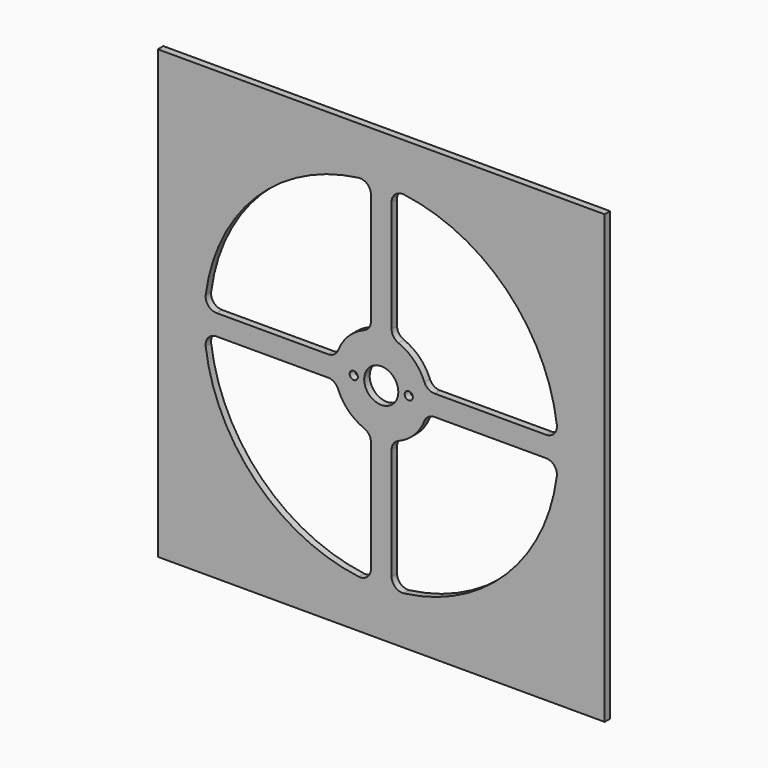
from build123d import *

# Parameters (mm, degrees)
F1_DEPTH = 2
F2_R     = 1.19
F2_R_2   = 4.96
F3_DEPTH = 2.001


with BuildPart() as f1:
    # F0 (on Front) → F1 (new body)
    with BuildSketch(Plane.XZ):
        Polygon((65, 65), (0, 65), (-65, 65), (-65, -65), (0, -65), (65, -65), align=None)
    extrude(amount=-F1_DEPTH)

    # F2 (on Front) → F3 (cut, through all)
    with BuildSketch(Plane.XZ):
        with BuildLine():
            ThreePointArc((-3, 47.923168), (-4.080113, 50.311237), (-6.586714, 51.077052))
            ThreePointArc((-6.586714, 51.077052), (-36.415999, 36.415999), (-51.077052, 6.586714))
            ThreePointArc((-51.077052, 6.586714), (-50.311237, 4.080113), (-47.923168, 3))
            Line((-47.923168, 3), (-15.492902, 3))
            ThreePointArc((-15.492902, 3), (-13.708845, 3.547598), (-12.539219, 5.001799))
            ThreePointArc((-12.539219, 5.001799), (-9.545942, 9.545942), (-5.001799, 12.539219))
            ThreePointArc((-5.001799, 12.539219), (-3.547598, 13.708845), (-3, 15.492902))
            Line((-3, 15.492902), (-3, 47.923168))
        make_face()
        with BuildLine():
            ThreePointArc((6.586714, 51.077052), (4.080113, 50.311237), (3, 47.923168))
            Line((3, 47.923168), (3, 15.492902))
            ThreePointArc((3, 15.492902), (3.547598, 13.708845), (5.001799, 12.539219))
            ThreePointArc((5.001799, 12.539219), (9.545942, 9.545942), (12.539219, 5.001799))
            ThreePointArc((12.539219, 5.001799), (13.708845, 3.547598), (15.492902, 3))
            Line((15.492902, 3), (47.923168, 3))
            ThreePointArc((47.923168, 3), (50.311237, 4.080113), (51.077052, 6.586714))
            ThreePointArc((51.077052, 6.586714), (36.415999, 36.415999), (6.586714, 51.077052))
        make_face()
        with BuildLine():
            Line((-15.492902, -3), (-47.923168, -3))
            ThreePointArc((-47.923168, -3), (-50.311237, -4.080113), (-51.077052, -6.586714))
            ThreePointArc((-51.077052, -6.586714), (-36.415999, -36.415999), (-6.586714, -51.077052))
            ThreePointArc((-6.586714, -51.077052), (-4.080113, -50.311237), (-3, -47.923168))
            Line((-3, -47.923168), (-3, -15.492902))
            ThreePointArc((-3, -15.492902), (-3.547598, -13.708845), (-5.001799, -12.539219))
            ThreePointArc((-5.001799, -12.539219), (-9.545942, -9.545942), (-12.539219, -5.001799))
            ThreePointArc((-12.539219, -5.001799), (-13.708845, -3.547598), (-15.492902, -3))
        make_face()
        with BuildLine():
            ThreePointArc((5.001799, -12.539219), (3.547598, -13.708845), (3, -15.492902))
            Line((3, -15.492902), (3, -47.923168))
            ThreePointArc((3, -47.923168), (4.080113, -50.311237), (6.586714, -51.077052))
            ThreePointArc((6.586714, -51.077052), (36.415999, -36.415999), (51.077052, -6.586714))
            ThreePointArc((51.077052, -6.586714), (50.311237, -4.080113), (47.923168, -3))
            Line((47.923168, -3), (15.492902, -3))
            ThreePointArc((15.492902, -3), (13.708845, -3.547598), (12.539219, -5.001799))
            ThreePointArc((12.539219, -5.001799), (9.545942, -9.545942), (5.001799, -12.539219))
        make_face()
        with Locations((-8, 0)):
            Circle(F2_R)
        with Locations((8, 0)):
            Circle(F2_R)
        Circle(F2_R_2)
    extrude(amount=-F3_DEPTH, mode=Mode.SUBTRACT)


solid = f1.part
